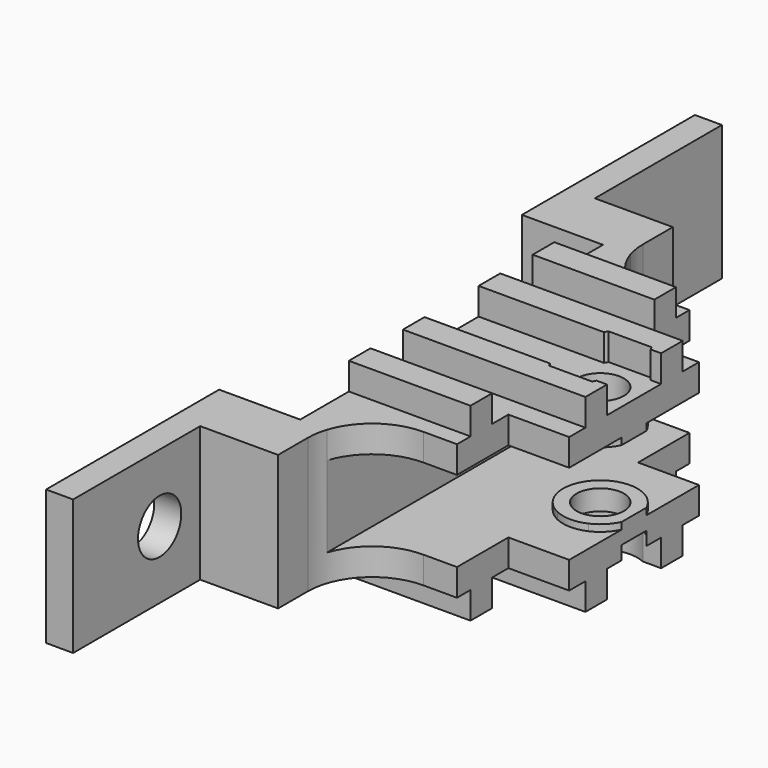
from build123d import *

# Parameters (mm, degrees)
F0_W      = 15
F0_H      = 2
F0_R      = 1.75
F1_DEPTH  = 2
F2_DEPTH  = 2
F3_DEPTH  = 2.5
F4_W      = 6
F4_H      = 26
F5_DEPTH  = 7
F6_DEPTH  = 6
F7_R      = 1.75
F8_DEPTH  = 2
F9_DEPTH  = 0.5
F10_W     = 9
F10_H     = 2
F11_DEPTH = 2
F12_R     = 2
F13_DEPTH = 25
F14_R     = 1.75
F15_DEPTH = 1
F16_W     = 6
F16_H     = 1
F17_DEPTH = 15


with BuildPart() as f1:
    # F0 (on Top) → F1 (new body)
    with BuildSketch(Plane.XY):
        with BuildLine():
            Line((15, -9.5), (0, -9.5))
            Line((0, -9.5), (0, -30))
            Line((0, -30), (2, -30))
            Line((2, -30), (2, -18.25))
            Line((2, -18.25), (7.7660733269, -18.25))
            Line((7.7660733269, -18.25), (7.7660733269, -15.5))
            ThreePointArc((7.7660733269, -15.5), (9.1573161163, -12.1412427894), (12.5160733269, -10.75))
            Line((12.5160733269, -10.75), (15, -10.75))
            Line((15, -10.75), (15, -9.5))
        make_face()
        with BuildLine():
            Line((0, 30), (0, 9.5))
            Line((0, 9.5), (15, 9.5))
            Line((15, 9.5), (15, 10.75))
            Line((15, 10.75), (12.5160733269, 10.75))
            ThreePointArc((12.5160733269, 10.75), (9.1573161163, 12.1412427894), (7.7660733269, 15.5))
            Line((7.7660733269, 15.5), (7.7660733269, 18.25))
            Line((7.7660733269, 18.25), (2, 18.25))
            Line((2, 18.25), (2, 30))
            Line((2, 30), (0, 30))
        make_face()
        Polygon((19.5, -5.8877859777), (19.5, -4.617), (19.5, -4.5), (0, -4.5), (0, -7.5), (15, -7.5), (15, -7), (15, -6), (19.5, -6), align=None)
        with BuildLine():
            Line((18.1456439237, -2.5), (19.5, -2.5))
            Line((19.5, -2.5), (19.5, -1.1456439237))
            ThreePointArc((19.5, -1.1456439237), (18.9445436483, -1.9445436483), (18.1456439237, -2.5))
        make_face()
        with Locations((7.5, -8.5)):
            Rectangle(F0_W, F0_H)
        with Locations((7.5, 8.5)):
            Rectangle(F0_W, F0_H)
        Polygon((0, 7.5), (0, 4.5), (19.5, 4.5), (19.5, 4.617), (19.5, 5.8877859777), (19.5, 6), (15, 6), (15, 7), (15, 7.5), align=None)
        with BuildLine():
            ThreePointArc((18.1456439237, 2.5), (18.9445436483, 1.9445436483), (19.5, 1.1456439237))
            Line((19.5, 1.1456439237), (19.5, 2.5))
            Line((19.5, 2.5), (18.1456439237, 2.5))
        make_face()
        with BuildLine():
            Line((0, 0), (0, -2.5))
            Line((0, -2.5), (15.8543560763, -2.5))
            ThreePointArc((15.8543560763, -2.5), (14.25, 0), (15.8543560763, 2.5))
            Line((15.8543560763, 2.5), (0, 2.5))
            Line((0, 2.5), (0, 0))
        make_face()
        with BuildLine():
            Line((0, -4.5), (19.5, -4.5))
            Line((19.5, -4.5), (19.5, -2.5))
            Line((19.5, -2.5), (18.1456439237, -2.5))
            ThreePointArc((18.1456439237, -2.5), (17, -2.75), (15.8543560763, -2.5))
            Line((15.8543560763, -2.5), (0, -2.5))
            Line((0, -2.5), (0, -4.5))
        make_face()
        with BuildLine():
            Line((0, 2.5), (15.8543560763, 2.5))
            ThreePointArc((15.8543560763, 2.5), (17, 2.75), (18.1456439237, 2.5))
            Line((18.1456439237, 2.5), (19.5, 2.5))
            Line((19.5, 2.5), (19.5, 4.5))
            Line((19.5, 4.5), (0, 4.5))
            Line((0, 4.5), (0, 2.5))
        make_face()
        with BuildLine():
            ThreePointArc((18.1456439237, -2.5), (18.9445436483, -1.9445436483), (19.5, -1.1456439237))
            Line((19.5, -1.1456439237), (19.5, 0.8877859777))
            Line((19.5, 0.8877859777), (19.5, 1.1456439237))
            ThreePointArc((19.5, 1.1456439237), (18.9445436483, 1.9445436483), (18.1456439237, 2.5))
            Line((18.1456439237, 2.5), (15.8543560763, 2.5))
            ThreePointArc((15.8543560763, 2.5), (14.25, 0), (15.8543560763, -2.5))
            Line((15.8543560763, -2.5), (18.1456439237, -2.5))
        make_face()
        with Locations((17, 0)):
            Circle(F0_R, mode=Mode.SUBTRACT)
        with BuildLine():
            ThreePointArc((18.1456439237, -2.5), (18.9445436483, -1.9445436483), (19.5, -1.1456439237))
            Line((19.5, -1.1456439237), (19.5, 0.8877859777))
            Line((19.5, 0.8877859777), (19.5, 1.1456439237))
            ThreePointArc((19.5, 1.1456439237), (18.9445436483, 1.9445436483), (18.1456439237, 2.5))
            Line((18.1456439237, 2.5), (15.8543560763, 2.5))
            ThreePointArc((15.8543560763, 2.5), (14.25, 0), (15.8543560763, -2.5))
            Line((15.8543560763, -2.5), (18.1456439237, -2.5))
        make_face()
        with Locations((17, 0)):
            Circle(F0_R, mode=Mode.SUBTRACT)
    extrude(amount=F1_DEPTH)

    # F0 (on Top) → F2 (join)
    with BuildSketch(Plane.XY):
        with Locations((7.5, -8.5)):
            Rectangle(F0_W, F0_H)
        with BuildLine():
            Line((0, -4.5), (19.5, -4.5))
            Line((19.5, -4.5), (19.5, -2.5))
            Line((19.5, -2.5), (18.1456439237, -2.5))
            ThreePointArc((18.1456439237, -2.5), (17, -2.75), (15.8543560763, -2.5))
            Line((15.8543560763, -2.5), (0, -2.5))
            Line((0, -2.5), (0, -4.5))
        make_face()
        with BuildLine():
            Line((0, 2.5), (15.8543560763, 2.5))
            ThreePointArc((15.8543560763, 2.5), (17, 2.75), (18.1456439237, 2.5))
            Line((18.1456439237, 2.5), (19.5, 2.5))
            Line((19.5, 2.5), (19.5, 4.5))
            Line((19.5, 4.5), (0, 4.5))
            Line((0, 4.5), (0, 2.5))
        make_face()
        with Locations((7.5, 8.5)):
            Rectangle(F0_W, F0_H)
    extrude(amount=-F2_DEPTH)

    # F0 (on Top) → F3 (join)
    with BuildSketch(Plane.XY):
        with BuildLine():
            ThreePointArc((18.1456439237, -2.5), (18.9445436483, -1.9445436483), (19.5, -1.1456439237))
            Line((19.5, -1.1456439237), (19.5, 0.8877859777))
            Line((19.5, 0.8877859777), (19.5, 1.1456439237))
            ThreePointArc((19.5, 1.1456439237), (18.9445436483, 1.9445436483), (18.1456439237, 2.5))
            Line((18.1456439237, 2.5), (15.8543560763, 2.5))
            ThreePointArc((15.8543560763, 2.5), (14.25, 0), (15.8543560763, -2.5))
            Line((15.8543560763, -2.5), (18.1456439237, -2.5))
        make_face()
        with Locations((17, 0)):
            Circle(F0_R, mode=Mode.SUBTRACT)
        with BuildLine():
            ThreePointArc((15.8543560763, -2.5), (17, -2.75), (18.1456439237, -2.5))
            Line((18.1456439237, -2.5), (15.8543560763, -2.5))
        make_face()
        with BuildLine():
            ThreePointArc((18.1456439237, 2.5), (17, 2.75), (15.8543560763, 2.5))
            Line((15.8543560763, 2.5), (18.1456439237, 2.5))
        make_face()
    extrude(amount=F3_DEPTH)

    # F4 (on face) → F5 (cut)
    with BuildSketch(Plane.XY.offset(2)):
        with Locations((3, 0)):
            Rectangle(F4_W, F4_H)
    extrude(amount=-F5_DEPTH, mode=Mode.SUBTRACT)

    # F4 (on face) → F6 (join)
    with BuildSketch(Plane.XY.offset(2)):
        with BuildLine():
            Line((8, -7.5), (8, -4.5))
            Line((8, -4.5), (8, -2.5))
            Line((8, -2.5), (8, 2.5))
            Line((8, 2.5), (8, 4.5))
            Line((8, 4.5), (8, 7.5))
            Line((8, 7.5), (8, 9.5))
            Line((8, 9.5), (8, 14.0277290651))
            ThreePointArc((8, 14.0277290651), (7.8249195082, 14.7546303947), (7.7660733269, 15.5))
            Line((7.7660733269, 15.5), (7.7660733269, 18.25))
            Line((7.7660733269, 18.25), (2, 18.25))
            Line((2, 18.25), (2, 30))
            Line((2, 30), (0, 30))
            Line((0, 30), (0, 13))
            Line((0, 13), (6, 13))
            Line((6, 13), (6, -13))
            Line((6, -13), (0, -13))
            Line((0, -13), (0, -30))
            Line((0, -30), (2, -30))
            Line((2, -30), (2, -18.25))
            Line((2, -18.25), (7.7660733269, -18.25))
            Line((7.7660733269, -18.25), (7.7660733269, -15.5))
            ThreePointArc((7.7660733269, -15.5), (7.8249195082, -14.7546303947), (8, -14.0277290651))
            Line((8, -14.0277290651), (8, -9.5))
            Line((8, -9.5), (8, -7.5))
        make_face()
    extrude(amount=F6_DEPTH)

    # F7 (on face) → F8 (join)
    with BuildSketch(Plane.XY.offset(8)):
        with BuildLine():
            ThreePointArc((7.7660733269, -15.5), (7.8249195082, -14.7546303947), (8, -14.0277290651))
            Line((8, -14.0277290651), (8, 14.0277290651))
            ThreePointArc((8, 14.0277290651), (7.8249195082, 14.7546303947), (7.7660733269, 15.5))
            Line((7.7660733269, 15.5), (7.7660733269, 18.25))
            Line((7.7660733269, 18.25), (2, 18.25))
            Line((2, 18.25), (2, 30))
            Line((2, 30), (0, 30))
            Line((0, 30), (0, 13))
            Line((0, 13), (6, 13))
            Line((6, 13), (6, -13))
            Line((6, -13), (0, -13))
            Line((0, -13), (0, -30))
            Line((0, -30), (2, -30))
            Line((2, -30), (2, -18.25))
            Line((2, -18.25), (7.7660733269, -18.25))
            Line((7.7660733269, -18.25), (7.7660733269, -15.5))
        make_face()
        with BuildLine():
            Line((19.5, -5.8877859777), (19.5, -4.617))
            Line((19.5, -4.617), (19.5, -1.1456439237))
            ThreePointArc((19.5, -1.1456439237), (14.25, 0), (19.5, 1.1456439237))
            Line((19.5, 1.1456439237), (19.5, 4.617))
            Line((19.5, 4.617), (19.5, 5.8877859777))
            Line((19.5, 5.8877859777), (19.5, 6))
            Line((19.5, 6), (15, 6))
            Line((15, 6), (15, 7))
            Line((15, 7), (15, 10.75))
            Line((15, 10.75), (12.5160733269, 10.75))
            ThreePointArc((12.5160733269, 10.75), (9.7259825525, 11.6557974207), (8, 14.0277290651))
            Line((8, 14.0277290651), (8, -14.0277290651))
            ThreePointArc((8, -14.0277290651), (9.7259825525, -11.6557974207), (12.5160733269, -10.75))
            Line((12.5160733269, -10.75), (15, -10.75))
            Line((15, -10.75), (15, -7))
            Line((15, -7), (15, -6))
            Line((15, -6), (19.5, -6))
            Line((19.5, -6), (19.5, -5.8877859777))
        make_face()
        with BuildLine():
            ThreePointArc((19.5, 1.1456439237), (14.25, 0), (19.5, -1.1456439237))
            Line((19.5, -1.1456439237), (19.5, 0.8877859777))
            Line((19.5, 0.8877859777), (19.5, 1.1456439237))
        make_face()
        with Locations((17, 0)):
            Circle(F7_R, mode=Mode.SUBTRACT)
        with BuildLine():
            ThreePointArc((19.5, 1.1456439237), (14.25, 0), (19.5, -1.1456439237))
            Line((19.5, -1.1456439237), (19.5, 0.8877859777))
            Line((19.5, 0.8877859777), (19.5, 1.1456439237))
        make_face()
        with Locations((17, 0)):
            Circle(F7_R, mode=Mode.SUBTRACT)
    extrude(amount=F8_DEPTH)

    # F7 (on face) → F9 (join)
    with BuildSketch(Plane.XY.offset(8)):
        with BuildLine():
            ThreePointArc((19.5, 1.1456439237), (14.25, 0), (19.5, -1.1456439237))
            Line((19.5, -1.1456439237), (19.5, 0.8877859777))
            Line((19.5, 0.8877859777), (19.5, 1.1456439237))
        make_face()
        with Locations((17, 0)):
            Circle(F7_R, mode=Mode.SUBTRACT)
    extrude(amount=-F9_DEPTH)

    # F10 (on face) → F11 (join)
    with BuildSketch(Plane.XY.offset(10)):
        with Locations((10.5, 8.5)):
            Rectangle(F10_W, F10_H)
        Polygon((6, 4.5), (6, 2.5), (15.2679491924, 2.5), (15.4122867597, 2.75), (18.5877132403, 2.75), (18.7320508076, 2.5), (19.5, 2.5), (19.5, 4.5), align=None)
        Polygon((6, -4.5), (19.5, -4.5), (19.5, -2.5), (18.7320508076, -2.5), (18.5877132403, -2.75), (15.4122867597, -2.75), (15.2679491924, -2.5), (6, -2.5), align=None)
        with Locations((10.5, -8.5)):
            Rectangle(F10_W, F10_H)
    extrude(amount=F11_DEPTH)

    # F12 (on face) → F13 (cut)
    with BuildSketch(Plane(origin=(0, 0, 0), x_dir=(0, -1, 0), z_dir=(-1, 0, 0))):
        with Locations((-22, 5)):
            Circle(F12_R)
        with Locations((22, 5)):
            Circle(F12_R)
    extrude(amount=-F13_DEPTH, mode=Mode.SUBTRACT)

    # F14 (on face) → F15 (cut)
    with BuildSketch(Plane(origin=(0, 0, 0), x_dir=(1, 0, 0), z_dir=(0, 0, -1))):
        with BuildLine():
            ThreePointArc((19.5, 1.1456439237), (18.9445436483, 1.9445436483), (18.1456439237, 2.5))
            ThreePointArc((18.1456439237, 2.5), (17, 2.75), (15.8543560763, 2.5))
            ThreePointArc((15.8543560763, 2.5), (14.25, 0), (15.8543560763, -2.5))
            ThreePointArc((15.8543560763, -2.5), (17, -2.75), (18.1456439237, -2.5))
            ThreePointArc((18.1456439237, -2.5), (18.9445436483, -1.9445436483), (19.5, -1.1456439237))
            Line((19.5, -1.1456439237), (19.5, 1.1456439237))
        make_face()
        with Locations((17, 0)):
            Circle(F14_R, mode=Mode.SUBTRACT)
    extrude(amount=-F15_DEPTH, mode=Mode.SUBTRACT)

    # F16 (on face) → F17 (cut, symmetric)
    with BuildSketch(Plane.XY.offset(8)):
        with Locations((3, -13.5)):
            Rectangle(F16_W, F16_H)
        with Locations((3, 13.5)):
            Rectangle(F16_W, F16_H)
    extrude(amount=F17_DEPTH, both=True, mode=Mode.SUBTRACT)


solid = f1.part
